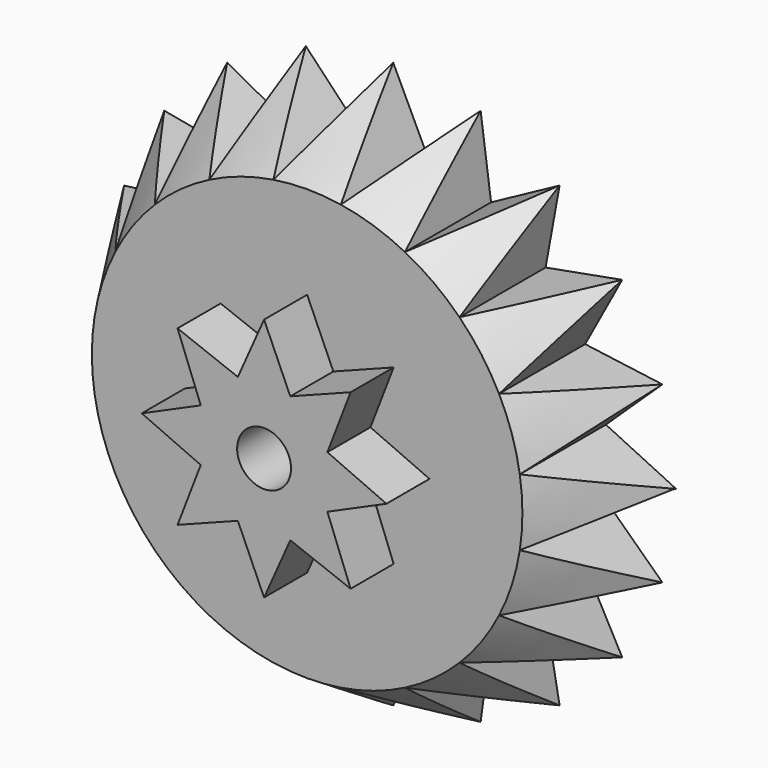
from build123d import *

# Parameters (mm, degrees)
F1_DEPTH = 6.35
F6_DEPTH = 6.35
F5_R     = 3.175
F7_DEPTH = 63.5


with BuildPart() as f1:
    # F0 (on Front) → F1 (new body, symmetric)
    with BuildSketch(Plane.XZ):
        with BuildLine():
            ThreePointArc((25.3999666944, -0.0411329817), (25.3999916736, -0.0205664976), (25.4, 0))
            ThreePointArc((25.4, 0), (25.3231458192, 1.9744077138), (25.0930483606, 3.9368672789))
            ThreePointArc((25.0930483606, 3.9368672789), (24.706334539, 5.8955096173), (24.1669838755, 7.8177292331))
            Line((24.1669838755, 7.8177292331), (0.0326778328, -0.0326249568))
            Line((0.0326778328, -0.0326249568), (0.0299255888, -0.0411329817))
            Line((0.0299255888, -0.0411329817), (25.3999666944, -0.0411329817))
        make_face()
        with BuildLine():
            ThreePointArc((25.0930483606, 3.9368672789), (25.3231458192, 1.9744077138), (25.4, 0))
            ThreePointArc((25.4, 0), (25.3999916736, -0.0205664976), (25.3999666944, -0.0411329817))
            Line((25.3999666944, -0.0411329817), (33.2082439851, -0.0411329817))
            Line((33.2082439851, -0.0411329817), (33.2939280097, 0))
            Line((33.2939280097, 0), (25.0930483606, 3.9368672789))
        make_face()
        with BuildLine():
            ThreePointArc((24.1669838755, 7.8177292331), (24.706334539, 5.8955096173), (25.0930483606, 3.9368672789))
            Line((25.0930483606, 3.9368672789), (31.7552785313, 10.2860330974))
            Line((31.7552785313, 10.2860330974), (24.1669838755, 7.8177292331))
        make_face()
        with BuildLine():
            Line((33.2082439851, -0.0411329817), (25.3999666944, -0.0411329817))
            ThreePointArc((25.3999666944, -0.0411329817), (25.3215388309, -1.994911335), (25.0930483606, -3.9368672789))
            Line((25.0930483606, -3.9368672789), (33.2082439851, -0.0411329817))
        make_face()
        with BuildLine():
            ThreePointArc((25.0930483606, -3.9368672789), (25.3215388309, -1.994911335), (25.3999666944, -0.0411329817))
            Line((25.3999666944, -0.0411329817), (0.0299255888, -0.0411329817))
            Line((0.0299255888, -0.0411329817), (0.0264556072, -0.0518597526))
            Line((0.0264556072, -0.0518597526), (24.1415369557, -7.895960576))
            ThreePointArc((24.1415369557, -7.895960576), (24.6967549032, -5.9355115407), (25.0930483606, -3.9368672789))
        make_face()
        with BuildLine():
            Line((0.0326778328, -0.0326249568), (24.1669838755, 7.8177292331))
            ThreePointArc((24.1669838755, 7.8177292331), (23.4783285027, 9.6916505673), (22.6446229644, 11.5056964501))
            ThreePointArc((22.6446229644, 11.5056964501), (21.6710179307, 13.2486596246), (20.5635283771, 14.9097719863))
            Line((20.5635283771, 14.9097719863), (0.0350181754, -0.0253902444))
            Line((0.0350181754, -0.0253902444), (0.0326778328, -0.0326249568))
        make_face()
        with BuildLine():
            ThreePointArc((22.6446229644, 11.5056964501), (23.4783285027, 9.6916505673), (24.1669838755, 7.8177292331))
            Line((24.1669838755, 7.8177292331), (31.7552785313, 10.2860330974))
            Line((31.7552785313, 10.2860330974), (22.6446229644, 11.5056964501))
        make_face()
        Polygon((33.3796120343, -0.0411329817), (33.2939280097, 0), (33.2082439851, -0.0411329817), align=None)
        with BuildLine():
            Line((31.7552785313, -10.2860330974), (25.0930483606, -3.9368672789))
            ThreePointArc((25.0930483606, -3.9368672789), (24.6967549032, -5.9355115407), (24.1415369557, -7.895960576))
            ThreePointArc((24.1415369557, -7.895960576), (23.4626029734, -9.7296588694), (22.6446229644, -11.5056964501))
            Line((22.6446229644, -11.5056964501), (31.7552785313, -10.2860330974))
        make_face()
        with BuildLine():
            ThreePointArc((20.5635283771, 14.9097719863), (21.6710179307, 13.2486596246), (22.6446229644, 11.5056964501))
            Line((22.6446229644, 11.5056964501), (27.0161574965, 19.6042705962))
            Line((27.0161574965, 19.6042705962), (20.5635283771, 14.9097719863))
        make_face()
        with BuildLine():
            ThreePointArc((22.6446229644, -11.5056964501), (23.4626029734, -9.7296588694), (24.1415369557, -7.895960576))
            Line((24.1415369557, -7.895960576), (0.0264556072, -0.0518597526))
            Line((0.0264556072, -0.0518597526), (0.0216754409, -0.0666367035))
            Line((0.0216754409, -0.0666367035), (20.5151305555, -14.9762952125))
            ThreePointArc((20.5151305555, -14.9762952125), (21.6495345196, -13.283736488), (22.6446229644, -11.5056964501))
        make_face()
        with BuildLine():
            Line((0.0350181754, -0.0253902444), (20.5635283771, 14.9097719863))
            ThreePointArc((20.5635283771, 14.9097719863), (19.3289964238, 16.4787711086), (17.9750490644, 17.9459636446))
            ThreePointArc((17.9750490644, 17.9459636446), (16.5100510465, 19.302285213), (14.9430531934, 20.5393563984))
            Line((14.9430531934, 20.5393563984), (0.0371289603, -0.0188651649))
            Line((0.0371289603, -0.0188651649), (0.0350181754, -0.0253902444))
        make_face()
        with BuildLine():
            ThreePointArc((17.9750490644, 17.9459636446), (19.3289964238, 16.4787711086), (20.5635283771, 14.9097719863))
            Line((20.5635283771, 14.9097719863), (27.0161574965, 19.6042705962))
            Line((27.0161574965, 19.6042705962), (17.9750490644, 17.9459636446))
        make_face()
        with BuildLine():
            Line((27.0161574965, -19.6042705962), (22.6446229644, -11.5056964501))
            ThreePointArc((22.6446229644, -11.5056964501), (21.6495345196, -13.283736488), (20.5151305555, -14.9762952125))
            ThreePointArc((20.5151305555, -14.9762952125), (19.302285213, -16.5100510465), (17.9750490644, -17.9459636446))
            Line((17.9750490644, -17.9459636446), (27.0161574965, -19.6042705962))
        make_face()
        with BuildLine():
            Line((20.5151305555, -14.9762952125), (0.0216754409, -0.0666367035))
            Line((0.0216754409, -0.0666367035), (0.0142195958, -0.0896849932))
            Line((0.0142195958, -0.0896849932), (14.8764516786, -20.5876464282))
            ThreePointArc((14.8764516786, -20.5876464282), (16.4787711086, -19.3289964238), (17.9750490644, -17.9459636446))
            ThreePointArc((17.9750490644, -17.9459636446), (19.302285213, -16.5100510465), (20.5151305555, -14.9762952125))
        make_face()
        with BuildLine():
            ThreePointArc((14.9430531934, 20.5393563984), (16.5100510465, 19.302285213), (17.9750490644, 17.9459636446))
            Line((17.9750490644, 17.9459636446), (19.6270962066, 26.9995793667))
            Line((19.6270962066, 26.9995793667), (14.9430531934, 20.5393563984))
        make_face()
        with BuildLine():
            Line((0.0294725544, -0.0294248649), (0.0371289603, -0.0188651649))
            Line((0.0371289603, -0.0188651649), (7.8568552068, 24.1542920877))
            ThreePointArc((7.8568552068, 24.1542920877), (5.9355115407, 24.6967549032), (3.9774980183, 25.0866400603))
            ThreePointArc((3.9774980183, 25.0866400603), (1.994911335, 25.3215388309), (0, 25.4))
            Line((0, 25.4), (-0.041143489, -0.006455033))
            Line((-0.041143489, -0.006455033), (-0.0371289603, -0.0188651649))
            Line((-0.0371289603, -0.0188651649), (-0.0294725544, -0.0294248649))
            Line((-0.0294725544, -0.0294248649), (-0.0189252671, -0.0370983612))
            Line((-0.0189252671, -0.0370983612), (-0.0065216527, -0.0411329817))
            Line((-0.0065216527, -0.0411329817), (0.0065216527, -0.0411329817))
            Line((0.0065216527, -0.0411329817), (0.0189252671, -0.0370983612))
            Line((0.0189252671, -0.0370983612), (0.0294725544, -0.0294248649))
        make_face()
        with BuildLine():
            Line((7.8568552068, 24.1542920877), (0.0371289603, -0.0188651649))
            Line((0.0371289603, -0.0188651649), (14.9430531934, 20.5393563984))
            ThreePointArc((14.9430531934, 20.5393563984), (13.283736488, 21.6495345196), (11.5423522634, 22.6259608465))
            ThreePointArc((11.5423522634, 22.6259608465), (9.7296588694, 23.4626029734), (7.8568552068, 24.1542920877))
        make_face()
        with BuildLine():
            Line((14.8764516786, -20.5876464282), (0.0142195958, -0.0896849932))
            Line((0.0142195958, -0.0896849932), (0, -0.133642098))
            Line((0, -0.133642098), (7.7785827575, -24.1796122857))
            ThreePointArc((7.7785827575, -24.1796122857), (9.6916505673, -23.4783285027), (11.5423522634, -22.6259608465))
            ThreePointArc((11.5423522634, -22.6259608465), (13.2486596246, -21.6710179307), (14.8764516786, -20.5876464282))
        make_face()
        with BuildLine():
            ThreePointArc((11.5423522634, 22.6259608465), (13.283736488, 21.6495345196), (14.9430531934, 20.5393563984))
            Line((14.9430531934, 20.5393563984), (19.6270962066, 26.9995793667))
            Line((19.6270962066, 26.9995793667), (11.5423522634, 22.6259608465))
        make_face()
        with BuildLine():
            Line((10.3128672742, 31.7465739895), (7.8568552068, 24.1542920877))
            ThreePointArc((7.8568552068, 24.1542920877), (9.7296588694, 23.4626029734), (11.5423522634, 22.6259608465))
            Line((11.5423522634, 22.6259608465), (10.3128672742, 31.7465739895))
        make_face()
        with BuildLine():
            ThreePointArc((3.9774980183, 25.0866400603), (5.9355115407, 24.6967549032), (7.8568552068, 24.1542920877))
            Line((7.8568552068, 24.1542920877), (10.3128672742, 31.7465739895))
            Line((10.3128672742, 31.7465739895), (3.9774980183, 25.0866400603))
        make_face()
        with BuildLine():
            Line((19.6270962066, -26.9995793667), (17.9750490644, -17.9459636446))
            ThreePointArc((17.9750490644, -17.9459636446), (16.4787711086, -19.3289964238), (14.8764516786, -20.5876464282))
            ThreePointArc((14.8764516786, -20.5876464282), (13.2486596246, -21.6710179307), (11.5423522634, -22.6259608465))
            Line((11.5423522634, -22.6259608465), (19.6270962066, -26.9995793667))
        make_face()
        with BuildLine():
            Line((7.7785827575, -24.1796122857), (0, -0.133642098))
            Line((0, -0.133642098), (-0.0415574978, -0.2621089903))
            Line((-0.0415574978, -0.2621089903), (-0.0822658556, -25.3998667778))
            ThreePointArc((-0.0822658556, -25.3998667778), (1.9539027981, -25.3247362051), (3.9774980183, -25.0866400603))
            ThreePointArc((3.9774980183, -25.0866400603), (5.8955096173, -24.706334539), (7.7785827575, -24.1796122857))
        make_face()
        with BuildLine():
            ThreePointArc((0, 25.4), (1.994911335, 25.3215388309), (3.9774980183, 25.0866400603))
            Line((3.9774980183, 25.0866400603), (0, 33.3796453399))
            Line((0, 33.3796453399), (0, 25.4))
        make_face()
        with BuildLine():
            Line((-7.7785827575, -24.1796122857), (-0.0415574978, -0.2621089903))
            Line((-0.0415574978, -0.2621089903), (-0.041338843, -0.1270878059))
            Line((-0.041338843, -0.1270878059), (-14.8764516786, -20.5876464282))
            ThreePointArc((-14.8764516786, -20.5876464282), (-13.2486596246, -21.6710179307), (-11.5423522634, -22.6259608465))
            ThreePointArc((-11.5423522634, -22.6259608465), (-9.6916505673, -23.4783285027), (-7.7785827575, -24.1796122857))
        make_face()
        with BuildLine():
            Line((-0.0822658556, -25.3998667778), (-0.0415574978, -0.2621089903))
            Line((-0.0415574978, -0.2621089903), (-7.7785827575, -24.1796122857))
            ThreePointArc((-7.7785827575, -24.1796122857), (-5.8955096173, -24.706334539), (-3.9774980183, -25.0866400603))
            ThreePointArc((-3.9774980183, -25.0866400603), (-2.0359146402, -25.3182750514), (-0.0822658556, -25.3998667778))
        make_face()
        with BuildLine():
            ThreePointArc((11.5423522634, -22.6259608465), (9.6916505673, -23.4783285027), (7.7785827575, -24.1796122857))
            ThreePointArc((7.7785827575, -24.1796122857), (5.8955096173, -24.706334539), (3.9774980183, -25.0866400603))
            Line((3.9774980183, -25.0866400603), (10.3128672742, -31.7465739895))
            Line((10.3128672742, -31.7465739895), (11.5423522634, -22.6259608465))
        make_face()
        with BuildLine():
            Line((-0.041143489, -0.006455033), (0, 25.4))
            ThreePointArc((0, 25.4), (-1.994911335, 25.3215388309), (-3.9774980183, 25.0866400603))
            ThreePointArc((-3.9774980183, 25.0866400603), (-5.9355115407, 24.6967549032), (-7.8568552068, 24.1542920877))
            Line((-7.8568552068, 24.1542920877), (-0.041143489, -0.006455033))
        make_face()
        with BuildLine():
            ThreePointArc((-3.9774980183, 25.0866400603), (-1.994911335, 25.3215388309), (0, 25.4))
            Line((0, 25.4), (0, 33.3796453399))
            Line((0, 33.3796453399), (-3.9774980183, 25.0866400603))
        make_face()
        with BuildLine():
            Line((-14.8764516786, -20.5876464282), (-0.041338843, -0.1270878059))
            Line((-0.041338843, -0.1270878059), (-0.0412640266, -0.08088804))
            Line((-0.0412640266, -0.08088804), (-20.5151305555, -14.9762952125))
            ThreePointArc((-20.5151305555, -14.9762952125), (-19.302285213, -16.5100510465), (-17.9750490644, -17.9459636446))
            ThreePointArc((-17.9750490644, -17.9459636446), (-16.4787711086, -19.3289964238), (-14.8764516786, -20.5876464282))
        make_face()
        with BuildLine():
            ThreePointArc((3.9774980183, -25.0866400603), (1.9539027981, -25.3247362051), (-0.0822658556, -25.3998667778))
            ThreePointArc((-0.0822658556, -25.3998667778), (-2.0359146402, -25.3182750514), (-3.9774980183, -25.0866400603))
            Line((-3.9774980183, -25.0866400603), (0, -33.3796453399))
            Line((0, -33.3796453399), (3.9774980183, -25.0866400603))
        make_face()
        with BuildLine():
            ThreePointArc((-3.9774980183, -25.0866400603), (-5.8955096173, -24.706334539), (-7.7785827575, -24.1796122857))
            ThreePointArc((-7.7785827575, -24.1796122857), (-9.6916505673, -23.4783285027), (-11.5423522634, -22.6259608465))
            Line((-11.5423522634, -22.6259608465), (-10.3128672794, -31.7465739878))
            Line((-10.3128672794, -31.7465739878), (-3.9774980183, -25.0866400603))
        make_face()
        with BuildLine():
            ThreePointArc((-7.8568552068, 24.1542920877), (-5.9355115407, 24.6967549032), (-3.9774980183, 25.0866400603))
            Line((-3.9774980183, 25.0866400603), (-10.3128672794, 31.7465739878))
            Line((-10.3128672794, 31.7465739878), (-7.8568552068, 24.1542920877))
        make_face()
        with BuildLine():
            Line((-0.0411545949, -0.0133130175), (-0.041143489, -0.006455033))
            Line((-0.041143489, -0.006455033), (-7.8568552068, 24.1542920877))
            ThreePointArc((-7.8568552068, 24.1542920877), (-9.7296588694, 23.4626029734), (-11.5423522634, 22.6259608465))
            ThreePointArc((-11.5423522634, 22.6259608465), (-13.283736488, 21.6495345196), (-14.9430531934, 20.5393563984))
            Line((-14.9430531934, 20.5393563984), (-0.0411545949, -0.0133130175))
        make_face()
        with BuildLine():
            Line((-20.5151305555, -14.9762952125), (-0.0412640266, -0.08088804))
            Line((-0.0412640266, -0.08088804), (-0.0412247977, -0.0566638425))
            Line((-0.0412247977, -0.0566638425), (-24.1415369557, -7.895960576))
            ThreePointArc((-24.1415369557, -7.895960576), (-23.4626029734, -9.7296588694), (-22.6446229644, -11.5056964501))
            ThreePointArc((-22.6446229644, -11.5056964501), (-21.6495345196, -13.283736488), (-20.5151305555, -14.9762952125))
        make_face()
        with BuildLine():
            ThreePointArc((-11.5423522634, -22.6259608465), (-13.2486596246, -21.6710179307), (-14.8764516786, -20.5876464282))
            ThreePointArc((-14.8764516786, -20.5876464282), (-16.4787711086, -19.3289964238), (-17.9750490644, -17.9459636446))
            Line((-17.9750490644, -17.9459636446), (-19.5937332182, -27.0236385527))
            Line((-19.5937332182, -27.0236385527), (-11.5423522634, -22.6259608465))
        make_face()
        with BuildLine():
            ThreePointArc((-11.5423522634, 22.6259608465), (-9.7296588694, 23.4626029734), (-7.8568552068, 24.1542920877))
            Line((-7.8568552068, 24.1542920877), (-10.3128672794, 31.7465739878))
            Line((-10.3128672794, 31.7465739878), (-11.5423522634, 22.6259608465))
        make_face()
        with BuildLine():
            Line((-0.0411669086, -0.02091684), (-0.0411545949, -0.0133130175))
            Line((-0.0411545949, -0.0133130175), (-14.9430531934, 20.5393563984))
            ThreePointArc((-14.9430531934, 20.5393563984), (-16.5100510465, 19.302285213), (-17.9750490644, 17.9459636446))
            ThreePointArc((-17.9750490644, 17.9459636446), (-19.3289964238, 16.4787711086), (-20.5635283771, 14.9097719863))
            Line((-20.5635283771, 14.9097719863), (-0.0411669086, -0.02091684))
        make_face()
        with BuildLine():
            Line((-24.1415369557, -7.895960576), (-0.0412247977, -0.0566638425))
            Line((-0.0412247977, -0.0566638425), (-0.0411996469, -0.0411329817))
            Line((-0.0411996469, -0.0411329817), (-25.3999666944, -0.0411329817))
            ThreePointArc((-25.3999666944, -0.0411329817), (-25.3215388309, -1.994911335), (-25.0930483606, -3.9368672789))
            ThreePointArc((-25.0930483606, -3.9368672789), (-24.6967549032, -5.9355115407), (-24.1415369557, -7.895960576))
        make_face()
        with BuildLine():
            ThreePointArc((-17.9750490644, -17.9459636446), (-19.302285213, -16.5100510465), (-20.5151305555, -14.9762952125))
            ThreePointArc((-20.5151305555, -14.9762952125), (-21.6495345196, -13.283736488), (-22.6446229644, -11.5056964501))
            Line((-22.6446229644, -11.5056964501), (-27.0161574965, -19.6042705962))
            Line((-27.0161574965, -19.6042705962), (-17.9750490644, -17.9459636446))
        make_face()
        with BuildLine():
            Line((-25.3999666944, -0.0411329817), (-0.0411996469, -0.0411329817))
            Line((-0.0411996469, -0.0411329817), (-0.0411813896, -0.0298589385))
            Line((-0.0411813896, -0.0298589385), (-24.1669838755, 7.8177292331))
            ThreePointArc((-24.1669838755, 7.8177292331), (-24.706334539, 5.8955096173), (-25.0930483606, 3.9368672789))
            ThreePointArc((-25.0930483606, 3.9368672789), (-25.3247362051, 1.9539027981), (-25.3999666944, -0.0411329817))
        make_face()
        with BuildLine():
            Line((-24.1669838755, 7.8177292331), (-0.0411813896, -0.0298589385))
            Line((-0.0411813896, -0.0298589385), (-0.0411669086, -0.02091684))
            Line((-0.0411669086, -0.02091684), (-20.5635283771, 14.9097719863))
            ThreePointArc((-20.5635283771, 14.9097719863), (-21.6710179307, 13.2486596246), (-22.6446229644, 11.5056964501))
            ThreePointArc((-22.6446229644, 11.5056964501), (-23.4783285027, 9.6916505673), (-24.1669838755, 7.8177292331))
        make_face()
        with BuildLine():
            ThreePointArc((-14.9430531934, 20.5393563984), (-13.283736488, 21.6495345196), (-11.5423522634, 22.6259608465))
            Line((-11.5423522634, 22.6259608465), (-19.5937332182, 27.0236385527))
            Line((-19.5937332182, 27.0236385527), (-14.9430531934, 20.5393563984))
        make_face()
        with BuildLine():
            ThreePointArc((-17.9750490644, 17.9459636446), (-16.5100510465, 19.302285213), (-14.9430531934, 20.5393563984))
            Line((-14.9430531934, 20.5393563984), (-19.5937332182, 27.0236385527))
            Line((-19.5937332182, 27.0236385527), (-17.9750490644, 17.9459636446))
        make_face()
        with BuildLine():
            ThreePointArc((-22.6446229644, -11.5056964501), (-23.4626029734, -9.7296588694), (-24.1415369557, -7.895960576))
            ThreePointArc((-24.1415369557, -7.895960576), (-24.6967549032, -5.9355115407), (-25.0930483606, -3.9368672789))
            Line((-25.0930483606, -3.9368672789), (-31.7552785313, -10.2860330974))
            Line((-31.7552785313, -10.2860330974), (-22.6446229644, -11.5056964501))
        make_face()
        with BuildLine():
            Line((-33.3795060187, 0), (-25.3999666944, -0.0411329817))
            ThreePointArc((-25.3999666944, -0.0411329817), (-25.3247362051, 1.9539027981), (-25.0930483606, 3.9368672789))
            Line((-25.0930483606, 3.9368672789), (-33.3795060187, 0))
        make_face()
        with BuildLine():
            ThreePointArc((-25.0930483606, -3.9368672789), (-25.3215388309, -1.994911335), (-25.3999666944, -0.0411329817))
            Line((-25.3999666944, -0.0411329817), (-33.3795060187, 0))
            Line((-33.3795060187, 0), (-25.0930483606, -3.9368672789))
        make_face()
        with BuildLine():
            Line((-31.7552785313, 10.2860330974), (-24.1669838755, 7.8177292331))
            ThreePointArc((-24.1669838755, 7.8177292331), (-23.4783285027, 9.6916505673), (-22.6446229644, 11.5056964501))
            Line((-22.6446229644, 11.5056964501), (-31.7552785313, 10.2860330974))
        make_face()
        with BuildLine():
            ThreePointArc((-25.0930483606, 3.9368672789), (-24.706334539, 5.8955096173), (-24.1669838755, 7.8177292331))
            Line((-24.1669838755, 7.8177292331), (-31.7552785313, 10.2860330974))
            Line((-31.7552785313, 10.2860330974), (-25.0930483606, 3.9368672789))
        make_face()
        with BuildLine():
            Line((-27.0161574965, 19.6042705962), (-20.5635283771, 14.9097719863))
            ThreePointArc((-20.5635283771, 14.9097719863), (-19.3289964238, 16.4787711086), (-17.9750490644, 17.9459636446))
            Line((-17.9750490644, 17.9459636446), (-27.0161574965, 19.6042705962))
        make_face()
        with BuildLine():
            ThreePointArc((-22.6446229644, 11.5056964501), (-21.6710179307, 13.2486596246), (-20.5635283771, 14.9097719863))
            Line((-20.5635283771, 14.9097719863), (-27.0161574965, 19.6042705962))
            Line((-27.0161574965, 19.6042705962), (-22.6446229644, 11.5056964501))
        make_face()
    extrude(amount=F1_DEPTH, both=True)

    # F2 (on Right) → F3 (revolve, cut)
    with BuildSketch(Plane.YZ):
        Polygon((-6.35, -33.3796453399), (0, -33.3796453399), (6.35, -33.3796453399), (-6.35, -25.4), align=None)
    revolve(axis=Axis((0, -3.175, 0), (0, -1, 0)), mode=Mode.SUBTRACT)

    # F4 (on face) → F6 (join)
    with BuildSketch(Plane.XZ.offset(6.35)):
        with BuildLine():
            Line((0, 0), (8.085071109, 0))
            ThreePointArc((8.085071109, 0), (7.9297187347, 1.5773191262), (7.4696317165, 3.0940227629))
            Line((7.4696317165, 3.0940227629), (0, 0))
        make_face()
        with BuildLine():
            Line((14.435071109, 0), (8.085071109, 0))
            ThreePointArc((8.085071109, 0), (7.9297187347, -1.5773191262), (7.4696317165, -3.0940227629))
            Line((7.4696317165, -3.0940227629), (14.435071109, 0))
        make_face()
        with BuildLine():
            ThreePointArc((7.4696317165, -3.0940227629), (7.9297187347, -1.5773191262), (8.085071109, 0))
            Line((8.085071109, 0), (0, 0))
            Line((0, 0), (7.4696317165, -3.0940227629))
        make_face()
        with BuildLine():
            ThreePointArc((7.4696317165, 3.0940227629), (7.9297187347, 1.5773191262), (8.085071109, 0))
            Line((8.085071109, 0), (14.435071109, 0))
            Line((14.435071109, 0), (7.4696317165, 3.0940227629))
        make_face()
        with BuildLine():
            Line((0, 0), (7.4696317165, 3.0940227629))
            ThreePointArc((7.4696317165, 3.0940227629), (6.7224909404, 4.49182484), (5.7170086075, 5.7170086075))
            Line((5.7170086075, 5.7170086075), (0, 0))
        make_face()
        with BuildLine():
            ThreePointArc((5.7170086075, 5.7170086075), (6.7224909404, 4.49182484), (7.4696317165, 3.0940227629))
            Line((7.4696317165, 3.0940227629), (10.2071366681, 10.2071366681))
            Line((10.2071366681, 10.2071366681), (5.7170086075, 5.7170086075))
        make_face()
        with BuildLine():
            Line((10.2071366681, -10.2071366681), (7.4696317165, -3.0940227629))
            ThreePointArc((7.4696317165, -3.0940227629), (6.7224909404, -4.49182484), (5.7170086075, -5.7170086075))
            Line((5.7170086075, -5.7170086075), (10.2071366681, -10.2071366681))
        make_face()
        with BuildLine():
            ThreePointArc((5.7170086075, -5.7170086075), (6.7224909404, -4.49182484), (7.4696317165, -3.0940227629))
            Line((7.4696317165, -3.0940227629), (0, 0))
            Line((0, 0), (5.7170086075, -5.7170086075))
        make_face()
        with BuildLine():
            Line((-3.0940227629, 7.4696317165), (0, 0))
            Line((0, 0), (3.0940227629, 7.4696317165))
            ThreePointArc((3.0940227629, 7.4696317165), (1.5773191262, 7.9297187347), (0, 8.085071109))
            ThreePointArc((0, 8.085071109), (-1.5773191262, 7.9297187347), (-3.0940227629, 7.4696317165))
        make_face()
        with BuildLine():
            Line((3.0940227629, 7.4696317165), (0, 0))
            Line((0, 0), (5.7170086075, 5.7170086075))
            ThreePointArc((5.7170086075, 5.7170086075), (4.49182484, 6.7224909404), (3.0940227629, 7.4696317165))
        make_face()
        with BuildLine():
            Line((5.7170086075, -5.7170086075), (0, 0))
            Line((0, 0), (3.0940227629, -7.4696317165))
            ThreePointArc((3.0940227629, -7.4696317165), (4.49182484, -6.7224909404), (5.7170086075, -5.7170086075))
        make_face()
        with BuildLine():
            Line((3.0940227629, -7.4696317165), (0, 0))
            Line((0, 0), (-3.0940227629, -7.4696317165))
            ThreePointArc((-3.0940227629, -7.4696317165), (-1.5773191262, -7.9297187347), (0, -8.085071109))
            ThreePointArc((0, -8.085071109), (1.5773191262, -7.9297187347), (3.0940227629, -7.4696317165))
        make_face()
        with BuildLine():
            Line((-3.0940227629, -7.4696317165), (0, 0))
            Line((0, 0), (-5.7170086075, -5.7170086075))
            ThreePointArc((-5.7170086075, -5.7170086075), (-4.49182484, -6.7224909404), (-3.0940227629, -7.4696317165))
        make_face()
        with BuildLine():
            Line((-5.7170086075, -5.7170086075), (0, 0))
            Line((0, 0), (-7.4696317165, -3.0940227629))
            ThreePointArc((-7.4696317165, -3.0940227629), (-6.7224909404, -4.49182484), (-5.7170086075, -5.7170086075))
        make_face()
        with BuildLine():
            Line((-7.4696317165, -3.0940227629), (0, 0))
            Line((0, 0), (-7.4696317165, 3.0940227629))
            ThreePointArc((-7.4696317165, 3.0940227629), (-7.9297187347, 1.5773191262), (-8.085071109, 0))
            ThreePointArc((-8.085071109, 0), (-7.9297187347, -1.5773191262), (-7.4696317165, -3.0940227629))
        make_face()
        with BuildLine():
            Line((-7.4696317165, 3.0940227629), (0, 0))
            Line((0, 0), (-5.7170086075, 5.7170086075))
            ThreePointArc((-5.7170086075, 5.7170086075), (-6.7224909404, 4.49182484), (-7.4696317165, 3.0940227629))
        make_face()
        with BuildLine():
            Line((-5.7170086075, 5.7170086075), (0, 0))
            Line((0, 0), (-3.0940227629, 7.4696317165))
            ThreePointArc((-3.0940227629, 7.4696317165), (-4.49182484, 6.7224909404), (-5.7170086075, 5.7170086075))
        make_face()
        with BuildLine():
            ThreePointArc((3.0940227629, 7.4696317165), (4.49182484, 6.7224909404), (5.7170086075, 5.7170086075))
            Line((5.7170086075, 5.7170086075), (10.2071366681, 10.2071366681))
            Line((10.2071366681, 10.2071366681), (3.0940227629, 7.4696317165))
        make_face()
        with BuildLine():
            Line((10.2071366681, -10.2071366681), (5.7170086075, -5.7170086075))
            ThreePointArc((5.7170086075, -5.7170086075), (4.49182484, -6.7224909404), (3.0940227629, -7.4696317165))
            Line((3.0940227629, -7.4696317165), (10.2071366681, -10.2071366681))
        make_face()
        with BuildLine():
            ThreePointArc((0, 8.085071109), (1.5773191262, 7.9297187347), (3.0940227629, 7.4696317165))
            Line((3.0940227629, 7.4696317165), (0, 14.435071109))
            Line((0, 14.435071109), (0, 8.085071109))
        make_face()
        with BuildLine():
            Line((0, -14.435071109), (3.0940227629, -7.4696317165))
            ThreePointArc((3.0940227629, -7.4696317165), (1.5773191262, -7.9297187347), (0, -8.085071109))
            Line((0, -8.085071109), (0, -14.435071109))
        make_face()
        with BuildLine():
            Line((-10.2071366681, -10.2071366681), (-3.0940227629, -7.4696317165))
            ThreePointArc((-3.0940227629, -7.4696317165), (-4.49182484, -6.7224909404), (-5.7170086075, -5.7170086075))
            Line((-5.7170086075, -5.7170086075), (-10.2071366681, -10.2071366681))
        make_face()
        with BuildLine():
            ThreePointArc((0, -8.085071109), (-1.5773191262, -7.9297187347), (-3.0940227629, -7.4696317165))
            Line((-3.0940227629, -7.4696317165), (0, -14.435071109))
            Line((0, -14.435071109), (0, -8.085071109))
        make_face()
        with BuildLine():
            Line((-10.2071366681, -10.2071366681), (-5.7170086075, -5.7170086075))
            ThreePointArc((-5.7170086075, -5.7170086075), (-6.7224909404, -4.49182484), (-7.4696317165, -3.0940227629))
            Line((-7.4696317165, -3.0940227629), (-10.2071366681, -10.2071366681))
        make_face()
        with BuildLine():
            Line((-14.435071109, 0), (-7.4696317165, -3.0940227629))
            ThreePointArc((-7.4696317165, -3.0940227629), (-7.9297187347, -1.5773191262), (-8.085071109, 0))
            Line((-8.085071109, 0), (-14.435071109, 0))
        make_face()
        with BuildLine():
            Line((-10.2071366681, 10.2071366681), (-7.4696317165, 3.0940227629))
            ThreePointArc((-7.4696317165, 3.0940227629), (-6.7224909404, 4.49182484), (-5.7170086075, 5.7170086075))
            Line((-5.7170086075, 5.7170086075), (-10.2071366681, 10.2071366681))
        make_face()
        with BuildLine():
            ThreePointArc((-8.085071109, 0), (-7.9297187347, 1.5773191262), (-7.4696317165, 3.0940227629))
            Line((-7.4696317165, 3.0940227629), (-14.435071109, 0))
            Line((-14.435071109, 0), (-8.085071109, 0))
        make_face()
        with BuildLine():
            Line((-10.2071366681, 10.2071366681), (-5.7170086075, 5.7170086075))
            ThreePointArc((-5.7170086075, 5.7170086075), (-4.49182484, 6.7224909404), (-3.0940227629, 7.4696317165))
            Line((-3.0940227629, 7.4696317165), (-10.2071366681, 10.2071366681))
        make_face()
        with BuildLine():
            Line((0, 14.435071109), (-3.0940227629, 7.4696317165))
            ThreePointArc((-3.0940227629, 7.4696317165), (-1.5773191262, 7.9297187347), (0, 8.085071109))
            Line((0, 8.085071109), (0, 14.435071109))
        make_face()
    extrude(amount=F6_DEPTH)

    # F5 (on Front) → F7 (cut, symmetric)
    with BuildSketch(Plane.XZ):
        Circle(F5_R)
    extrude(amount=-F7_DEPTH, both=True, mode=Mode.SUBTRACT)


solid = f1.part
